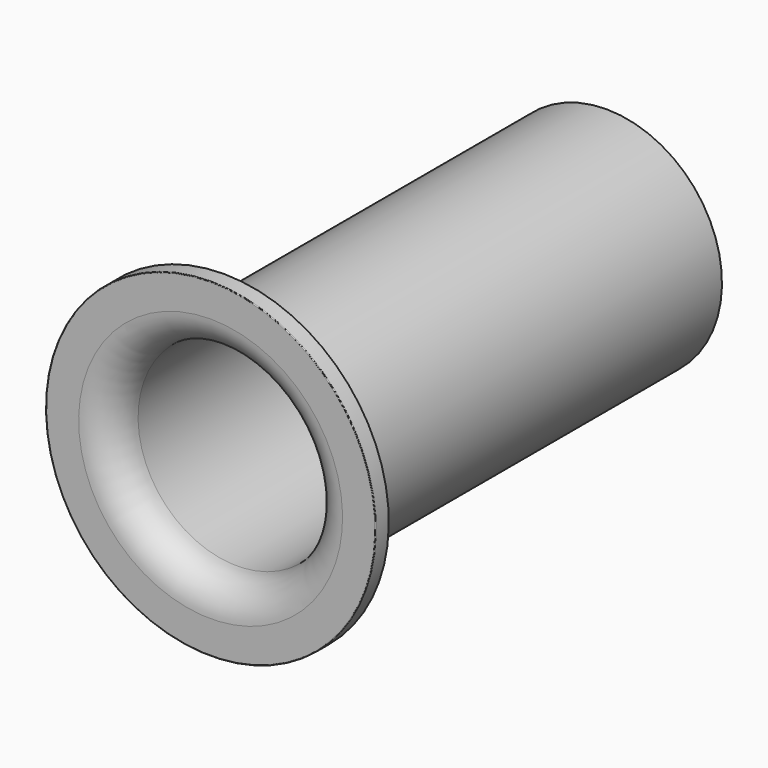
from build123d import *

# Parameters (mm, degrees)
F2_R = 0.1


with BuildPart() as f1:
    # F0 (on Right) → F1 (revolve)
    with BuildSketch(Plane.YZ):
        with BuildLine():
            ThreePointArc((0, 20), (1.464466, 16.464466), (5, 15))
            Line((5, 15), (75, 15))
            Line((75, 15), (75, 17.5))
            Line((75, 17.5), (5, 17.5))
            ThreePointArc((5, 17.5), (3.232233, 18.232233), (2.5, 20))
            Line((2.5, 20), (2.5, 25))
            Line((2.5, 25), (0, 25))
            Line((0, 25), (0, 20))
        make_face()
    revolve(axis=Axis((0, 20.755913, 0), (0, 1, 0)))

    # F2
    f2_edges = [f1.edges().sort_by_distance(p)[0] for p in [
        (0, 0, -25),
    ]]
    fillet(f2_edges, radius=F2_R)


solid = f1.part
